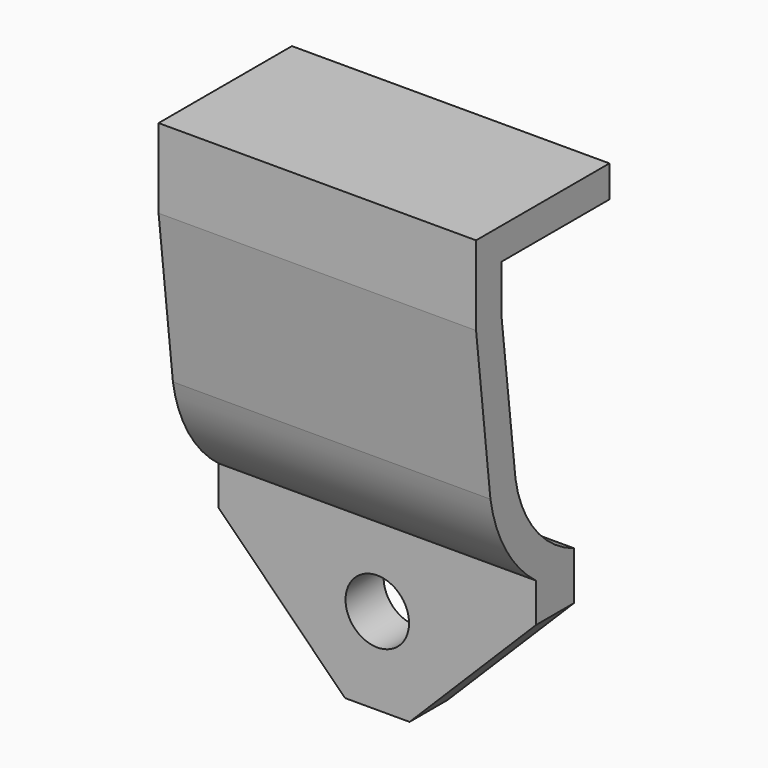
from build123d import *

# Parameters (mm, degrees)
EXTRUDE004_DEPTH  = 10
CYLINDER024_R     = 2
CYLINDER024_DEPTH = 20
EXTRUDE003_DEPTH  = 20


with BuildPart() as extrude004:
    # Sketch006 → Extrude004 (new body)
    with BuildSketch(Plane(origin=(0, 20, 0), x_dir=(-1, 0, 0), z_dir=(0, 1, 0))):
        Polygon((24, -38), (32, -30), (33, -30), (33, -39), (11, -39), (11, -30), (12, -30), (20, -38), align=None)
    extrude(amount=-EXTRUDE004_DEPTH)


with BuildPart() as extrude004_1:
    # Extrude004 placement: moved
    add(extrude004.part.moved(Location((0, -23, 0))))


with BuildPart() as fusion005:
    # Cylinder024 → Cylinder024 (new body)
    with BuildSketch(Plane(origin=(-22, 0, -32.5), x_dir=(1, 0, 0), z_dir=(0, -1, 0))):
        Circle(CYLINDER024_R)
    extrude(amount=CYLINDER024_DEPTH)

    # Fusion005: union Extrude004
    add(extrude004_1.part)


with BuildPart() as body001:
    # Sketch005 → Extrude003 (new body)
    with BuildSketch(Plane(origin=(-80, 0, 0), x_dir=(0, -1, 0), z_dir=(-1, 0, 0))):
        with BuildLine():
            Line((9.222057, -26.966565), (9.222057, -37.966565))
            Line((9.222057, -37.966565), (6.222057, -37.966565))
            Line((6.222057, -37.966565), (6.222057, -27.540914))
            ThreePointArc((2.629328, -21.56221), (3.857128, -24.893224), (6.222057, -27.540914))
            Line((1.5, -11.75), (2.629328, -21.56221))
            Line((1.5, -6.75), (1.5, -11.75))
            Line((12, -6.75), (1.5, -6.75))
            Line((12, -8.75), (12, -6.75))
            Line((12, -8.75), (3.5, -8.75))
            Line((3.5, -8.75), (3.5, -11.75))
            Line((3.5, -11.75), (4.602099, -21.233313))
            ThreePointArc((4.602099, -21.233313), (6.160095, -24.705901), (9.222057, -26.966565))
        make_face()
    extrude(amount=-EXTRUDE003_DEPTH)


with BuildPart() as body001_1:
    # Extrude003 placement: moved
    add(body001.part.moved(Location((48, 0, 0))))

    # Cut004: cut Fusion005
    add(fusion005.part, mode=Mode.SUBTRACT)


with BuildPart() as part_mirroring001:
    # Part__Mirroring001: instance of Body001
    add(body001_1.part.mirror(Plane(origin=(0, -12, 0), x_dir=(1, 0, 0), z_dir=(0, 1, 0))))


solid = part_mirroring001.part
